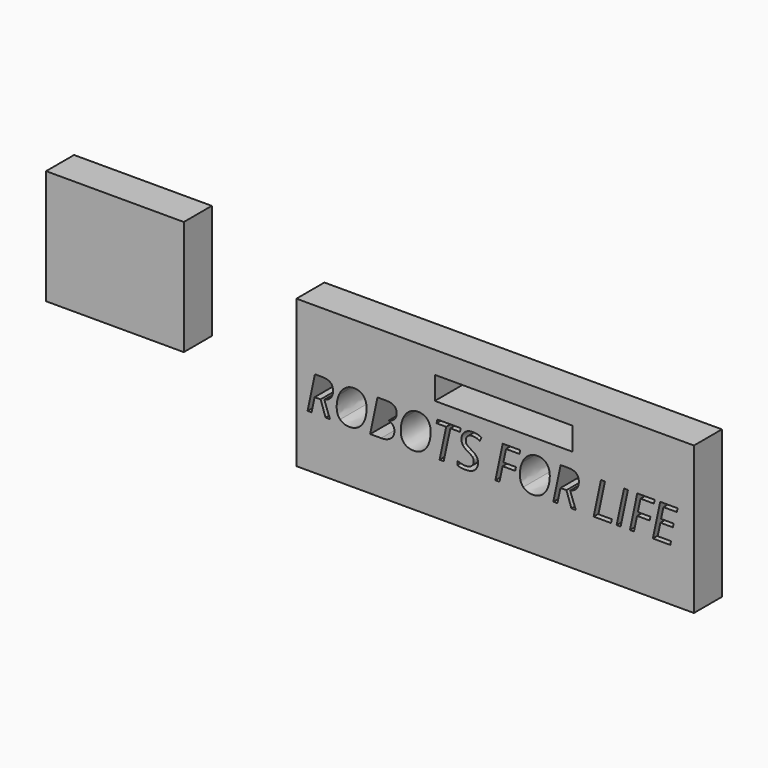
from build123d import *

# Parameters (mm, degrees)
F0_W     = 144.3225946277
F0_H     = 53.5482652485
F0_W_2   = 50
F0_H_2   = 8.3435839042
F1_DEPTH = 12.7
F2_DEPTH = 12.7
F0_H_3   = 41.5998017415


with BuildPart() as f1:
    # F0 (on Front) → F1 (new body)
    with BuildSketch(Plane.XZ):
        with Locations((62.1875571087, -1.3601835817)):
            Rectangle(F0_W, F0_H)
        with BuildLine():
            Line((-1.1938566275, -3.9241298048), (-3.365644822, -3.9241298048))
            Line((-3.365644822, -3.9241298048), (-4.4763436067, -9.1606749437))
            Line((-4.4763436067, -9.1606749437), (-5.9398201692, -9.1606749437))
            Line((-5.9398201692, -9.1606749437), (-3.2802064539, 3.4318380772))
            Line((-3.2802064539, 3.4318380772), (-0.524130065, 3.4318380772))
            add(Edge.make_bspline(
                [(-0.524130065, 3.4318380772), (3.3178404211, 3.4318380772), (3.3178404211, 0.2788866883)],
                knots=[0, 0, 0, 1, 1, 1], degree=2))
            add(Edge.make_bspline(
                [(3.3178404211, 0.2788866883), (3.3178404211, -2.7169683465), (0.1483525739, -3.5878884853)],
                knots=[0, 0, 0, 1, 1, 1], degree=2))
            Line((0.1483525739, -3.5878884853), (2.2071416364, -9.1606749437))
            Line((2.2071416364, -9.1606749437), (0.6058612544, -9.1606749437))
            Line((0.6058612544, -9.1606749437), (-1.1938566275, -3.9241298048))
        make_face(mode=Mode.SUBTRACT)
        with BuildLine():
            add(Edge.make_bspline(
                [(14.2994267926, 2.3032247959), (15.5052102127, 0.9761740147), (15.5052102127, -1.3499544576)],
                knots=[0, 0, 0, 1, 1, 1], degree=2))
            add(Edge.make_bspline(
                [(15.5052102127, -1.3499544576), (15.5052102127, -3.6650586242), (14.7472892058, -5.4950933465)],
                knots=[0, 0, 0, 1, 1, 1], degree=2))
            add(Edge.make_bspline(
                [(14.7472892058, -5.4950933465), (13.9893681989, -7.3251280687), (12.5768790496, -8.3297179124)],
                knots=[0, 0, 0, 1, 1, 1], degree=2))
            add(Edge.make_bspline(
                [(12.5768790496, -8.3297179124), (11.1643899002, -9.3343077562), (9.3150626433, -9.3343077562)],
                knots=[0, 0, 0, 1, 1, 1], degree=2))
            add(Edge.make_bspline(
                [(9.3150626433, -9.3343077562), (7.1102015322, -9.3343077562), (5.8782353864, -8.0458420444)],
                knots=[0, 0, 0, 1, 1, 1], degree=2))
            add(Edge.make_bspline(
                [(5.8782353864, -8.0458420444), (4.6462692405, -6.7573763326), (4.6462692405, -4.4312478603)],
                knots=[0, 0, 0, 1, 1, 1], degree=2))
            add(Edge.make_bspline(
                [(4.6462692405, -4.4312478603), (4.6462692405, -2.1574848395), (5.4730921572, -0.2805968187)],
                knots=[0, 0, 0, 1, 1, 1], degree=2))
            add(Edge.make_bspline(
                [(5.4730921572, -0.2805968187), (6.2999150739, 1.5962912022), (7.7427210634, 2.6132833897)],
                knots=[0, 0, 0, 1, 1, 1], degree=2))
            add(Edge.make_bspline(
                [(7.7427210634, 2.6132833897), (9.185527053, 3.6302755772), (10.9935131641, 3.6302755772)],
                knots=[0, 0, 0, 1, 1, 1], degree=2))
            add(Edge.make_bspline(
                [(10.9935131641, 3.6302755772), (13.0936433725, 3.6302755772), (14.2994267926, 2.3032247959)],
                knots=[0, 0, 0, 1, 1, 1], degree=2))
        make_face(mode=Mode.SUBTRACT)
        with BuildLine():
            Line((19.4574237544, 3.4318380772), (22.6875452822, 3.4318380772))
            add(Edge.make_bspline(
                [(22.6875452822, 3.4318380772), (26.4082484072, 3.4318380772), (26.4082484072, 0.5379578688)],
                knots=[0, 0, 0, 1, 1, 1], degree=2))
            add(Edge.make_bspline(
                [(26.4082484072, 0.5379578688), (26.4082484072, -0.6774718187), (25.6599736676, -1.5125629645)],
                knots=[0, 0, 0, 1, 1, 1], degree=2))
            add(Edge.make_bspline(
                [(25.6599736676, -1.5125629645), (24.911698928, -2.3476541103), (23.5501971919, -2.5984570617)],
                knots=[0, 0, 0, 1, 1, 1], degree=2))
            Line((23.5501971919, -2.5984570617), (23.5501971919, -2.6838954298))
            add(Edge.make_bspline(
                [(23.5501971919, -2.6838954298), (24.5396286155, -2.9595030687), (25.0701733204, -3.6361198221)],
                knots=[0, 0, 0, 1, 1, 1], degree=2))
            add(Edge.make_bspline(
                [(25.0701733204, -3.6361198221), (25.6007180252, -4.3127365756), (25.6007180252, -5.258070777)],
                knots=[0, 0, 0, 1, 1, 1], degree=2))
            add(Edge.make_bspline(
                [(25.6007180252, -5.258070777), (25.6007180252, -7.0853494228), (24.2915817405, -8.1230121833)],
                knots=[0, 0, 0, 1, 1, 1], degree=2))
            add(Edge.make_bspline(
                [(24.2915817405, -8.1230121833), (22.9824454558, -9.1606749437), (20.7858525739, -9.1606749437)],
                knots=[0, 0, 0, 1, 1, 1], degree=2))
            Line((20.7858525739, -9.1606749437), (16.7978100391, -9.1606749437))
            Line((16.7978100391, -9.1606749437), (19.4574237544, 3.4318380772))
        make_face(mode=Mode.SUBTRACT)
        with BuildLine():
            add(Edge.make_bspline(
                [(37.5524432857, 2.3032247959), (38.7582267058, 0.9761740147), (38.7582267058, -1.3499544576)],
                knots=[0, 0, 0, 1, 1, 1], degree=2))
            add(Edge.make_bspline(
                [(38.7582267058, -1.3499544576), (38.7582267058, -3.6650586242), (38.0003056989, -5.4950933465)],
                knots=[0, 0, 0, 1, 1, 1], degree=2))
            add(Edge.make_bspline(
                [(38.0003056989, -5.4950933465), (37.2423846919, -7.3251280687), (35.8298955426, -8.3297179124)],
                knots=[0, 0, 0, 1, 1, 1], degree=2))
            add(Edge.make_bspline(
                [(35.8298955426, -8.3297179124), (34.4174063933, -9.3343077562), (32.5680791364, -9.3343077562)],
                knots=[0, 0, 0, 1, 1, 1], degree=2))
            add(Edge.make_bspline(
                [(32.5680791364, -9.3343077562), (30.3632180252, -9.3343077562), (29.1312518794, -8.0458420444)],
                knots=[0, 0, 0, 1, 1, 1], degree=2))
            add(Edge.make_bspline(
                [(29.1312518794, -8.0458420444), (27.8992857336, -6.7573763326), (27.8992857336, -4.4312478603)],
                knots=[0, 0, 0, 1, 1, 1], degree=2))
            add(Edge.make_bspline(
                [(27.8992857336, -4.4312478603), (27.8992857336, -2.1574848395), (28.7261086502, -0.2805968187)],
                knots=[0, 0, 0, 1, 1, 1], degree=2))
            add(Edge.make_bspline(
                [(28.7261086502, -0.2805968187), (29.5529315669, 1.5962912022), (30.9957375565, 2.6132833897)],
                knots=[0, 0, 0, 1, 1, 1], degree=2))
            add(Edge.make_bspline(
                [(30.9957375565, 2.6132833897), (32.4385435461, 3.6302755772), (34.2465296572, 3.6302755772)],
                knots=[0, 0, 0, 1, 1, 1], degree=2))
            add(Edge.make_bspline(
                [(34.2465296572, 3.6302755772), (36.3466598655, 3.6302755772), (37.5524432857, 2.3032247959)],
                knots=[0, 0, 0, 1, 1, 1], degree=2))
        make_face(mode=Mode.SUBTRACT)
        Polygon((45.9074888586, 2.1309700216), (43.5041902475, -9.1606749437), (42.0214211502, -9.1606749437), (44.408183303, 2.1309700216), (40.9107223655, 2.1309700216), (41.1945982336, 3.4318380772), (49.680557435, 3.4318380772), (49.4214862544, 2.1309700216), align=None, mode=Mode.SUBTRACT)
        with BuildLine():
            add(Edge.make_bspline(
                [(55.7315231468, -4.2989561937), (55.9588994489, -4.8198546312), (55.9588994489, -5.5088737284)],
                knots=[0, 0, 0, 1, 1, 1], degree=2))
            add(Edge.make_bspline(
                [(55.9588994489, -5.5088737284), (55.9588994489, -7.3251280687), (54.7489819141, -8.3297179124)],
                knots=[0, 0, 0, 1, 1, 1], degree=2))
            add(Edge.make_bspline(
                [(54.7489819141, -8.3297179124), (53.5390643794, -9.3343077562), (51.3424714975, -9.3343077562)],
                knots=[0, 0, 0, 1, 1, 1], degree=2))
            add(Edge.make_bspline(
                [(51.3424714975, -9.3343077562), (50.4302102127, -9.3343077562), (49.7370570009, -9.2089062805)],
                knots=[0, 0, 0, 1, 1, 1], degree=2))
            add(Edge.make_bspline(
                [(49.7370570009, -9.2089062805), (49.0439037891, -9.0835048048), (48.4320548308, -8.7913607076)],
                knots=[0, 0, 0, 1, 1, 1], degree=2))
            Line((48.4320548308, -8.7913607076), (48.4320548308, -7.3251280687))
            add(Edge.make_bspline(
                [(48.4320548308, -7.3251280687), (49.8266294836, -8.049976159), (51.3590079558, -8.049976159)],
                knots=[0, 0, 0, 1, 1, 1], degree=2))
            add(Edge.make_bspline(
                [(51.3590079558, -8.049976159), (52.756338685, -8.049976159), (53.5735153343, -7.3995421312)],
                knots=[0, 0, 0, 1, 1, 1], degree=2))
            add(Edge.make_bspline(
                [(53.5735153343, -7.3995421312), (54.3906919836, -6.7491081034), (54.3906919836, -5.6108485548)],
                knots=[0, 0, 0, 1, 1, 1], degree=2))
            add(Edge.make_bspline(
                [(54.3906919836, -5.6108485548), (54.3906919836, -4.9411219923), (53.9386954558, -4.428491784)],
                knots=[0, 0, 0, 1, 1, 1], degree=2))
            add(Edge.make_bspline(
                [(53.9386954558, -4.428491784), (53.486698928, -3.9158615756), (52.2547327822, -3.2185742492)],
                knots=[0, 0, 0, 1, 1, 1], degree=2))
            add(Edge.make_bspline(
                [(52.2547327822, -3.2185742492), (50.956620803, -2.4854579298), (50.4522588239, -1.7537196485)],
                knots=[0, 0, 0, 1, 1, 1], degree=2))
            add(Edge.make_bspline(
                [(50.4522588239, -1.7537196485), (49.9478968447, -1.0219813673), (49.9478968447, -0.0215256381)],
                knots=[0, 0, 0, 1, 1, 1], degree=2))
            add(Edge.make_bspline(
                [(49.9478968447, -0.0215256381), (49.9478968447, 1.588022973), (51.0847783551, 2.5995030077)],
                knots=[0, 0, 0, 1, 1, 1], degree=2))
            add(Edge.make_bspline(
                [(51.0847783551, 2.5995030077), (52.2216598655, 3.6109830424), (54.0737431989, 3.6109830424)],
                knots=[0, 0, 0, 1, 1, 1], degree=2))
            add(Edge.make_bspline(
                [(54.0737431989, 3.6109830424), (54.925370803, 3.6109830424), (55.6626212371, 3.4483745355)],
                knots=[0, 0, 0, 1, 1, 1], degree=2))
            add(Edge.make_bspline(
                [(55.6626212371, 3.4483745355), (56.3998716711, 3.2857660285), (57.2156702822, 2.8888910285)],
                knots=[0, 0, 0, 1, 1, 1], degree=2))
            Line((57.2156702822, 2.8888910285), (56.6479185461, 1.5962912022))
            add(Edge.make_bspline(
                [(56.6479185461, 1.5962912022), (56.08016681, 1.9242642924), (55.3732332162, 2.1130555251)],
                knots=[0, 0, 0, 1, 1, 1], degree=2))
            add(Edge.make_bspline(
                [(55.3732332162, 2.1130555251), (54.6662996225, 2.3018467577), (54.0737431989, 2.3018467577)],
                knots=[0, 0, 0, 1, 1, 1], degree=2))
            add(Edge.make_bspline(
                [(54.0737431989, 2.3018467577), (52.9189471919, 2.3018467577), (52.2175257509, 1.7037781813)],
                knots=[0, 0, 0, 1, 1, 1], degree=2))
            add(Edge.make_bspline(
                [(52.2175257509, 1.7037781813), (51.51610431, 1.1057096049), (51.51610431, 0.0804491883)],
                knots=[0, 0, 0, 1, 1, 1], degree=2))
            add(Edge.make_bspline(
                [(51.51610431, 0.0804491883), (51.51610431, -0.3853277215), (51.6621763586, -0.7160568881)],
                knots=[0, 0, 0, 1, 1, 1], degree=2))
            add(Edge.make_bspline(
                [(51.6621763586, -0.7160568881), (51.8082484072, -1.0467860548), (52.1265752301, -1.3403081902)],
                knots=[0, 0, 0, 1, 1, 1], degree=2))
            add(Edge.make_bspline(
                [(52.1265752301, -1.3403081902), (52.444902053, -1.6338303256), (53.3488951086, -2.1574848395)],
                knots=[0, 0, 0, 1, 1, 1], degree=2))
            add(Edge.make_bspline(
                [(53.3488951086, -2.1574848395), (54.6166902475, -2.9154058465), (55.0604185461, -3.3467318013)],
                knots=[0, 0, 0, 1, 1, 1], degree=2))
            add(Edge.make_bspline(
                [(55.0604185461, -3.3467318013), (55.5041468447, -3.7780577562), (55.7315231468, -4.2989561937)],
                knots=[0, 0, 0, 1, 1, 1], degree=2))
        make_face(mode=Mode.SUBTRACT)
        Polygon((64.8858308725, -3.7945942145), (63.755839553, -9.1606749437), (62.2758265322, -9.1606749437), (64.9354402475, 3.4318380772), (71.2661477127, 3.4318380772), (71.0098326086, 2.1144335633), (66.1177970183, 2.1144335633), (65.1697067405, -2.4771897006), (69.7172327822, -2.4771897006), (69.4416251433, -3.7945942145), align=None, mode=Mode.SUBTRACT)
        with BuildLine():
            add(Edge.make_bspline(
                [(80.8090622093, 2.3032247959), (82.0148456294, 0.9761740147), (82.0148456294, -1.3499544576)],
                knots=[0, 0, 0, 1, 1, 1], degree=2))
            add(Edge.make_bspline(
                [(82.0148456294, -1.3499544576), (82.0148456294, -3.6650586242), (81.2569246225, -5.4950933465)],
                knots=[0, 0, 0, 1, 1, 1], degree=2))
            add(Edge.make_bspline(
                [(81.2569246225, -5.4950933465), (80.4990036155, -7.3251280687), (79.0865144662, -8.3297179124)],
                knots=[0, 0, 0, 1, 1, 1], degree=2))
            add(Edge.make_bspline(
                [(79.0865144662, -8.3297179124), (77.6740253169, -9.3343077562), (75.82469806, -9.3343077562)],
                knots=[0, 0, 0, 1, 1, 1], degree=2))
            add(Edge.make_bspline(
                [(75.82469806, -9.3343077562), (73.6198369489, -9.3343077562), (72.387870803, -8.0458420444)],
                knots=[0, 0, 0, 1, 1, 1], degree=2))
            add(Edge.make_bspline(
                [(72.387870803, -8.0458420444), (71.1559046572, -6.7573763326), (71.1559046572, -4.4312478603)],
                knots=[0, 0, 0, 1, 1, 1], degree=2))
            add(Edge.make_bspline(
                [(71.1559046572, -4.4312478603), (71.1559046572, -2.1574848395), (71.9827275739, -0.2805968187)],
                knots=[0, 0, 0, 1, 1, 1], degree=2))
            add(Edge.make_bspline(
                [(71.9827275739, -0.2805968187), (72.8095504905, 1.5962912022), (74.2523564801, 2.6132833897)],
                knots=[0, 0, 0, 1, 1, 1], degree=2))
            add(Edge.make_bspline(
                [(74.2523564801, 2.6132833897), (75.6951624697, 3.6302755772), (77.5031485808, 3.6302755772)],
                knots=[0, 0, 0, 1, 1, 1], degree=2))
            add(Edge.make_bspline(
                [(77.5031485808, 3.6302755772), (79.6032787891, 3.6302755772), (80.8090622093, 2.3032247959)],
                knots=[0, 0, 0, 1, 1, 1], degree=2))
        make_face(mode=Mode.SUBTRACT)
        with BuildLine():
            Line((88.0534089975, -3.9241298048), (85.881620803, -3.9241298048))
            Line((85.881620803, -3.9241298048), (84.7709220183, -9.1606749437))
            Line((84.7709220183, -9.1606749437), (83.3074454558, -9.1606749437))
            Line((83.3074454558, -9.1606749437), (85.9670591711, 3.4318380772))
            Line((85.9670591711, 3.4318380772), (88.72313556, 3.4318380772))
            add(Edge.make_bspline(
                [(88.72313556, 3.4318380772), (92.5651060461, 3.4318380772), (92.5651060461, 0.2788866883)],
                knots=[0, 0, 0, 1, 1, 1], degree=2))
            add(Edge.make_bspline(
                [(92.5651060461, 0.2788866883), (92.5651060461, -2.7169683465), (89.3956181989, -3.5878884853)],
                knots=[0, 0, 0, 1, 1, 1], degree=2))
            Line((89.3956181989, -3.5878884853), (91.4544072614, -9.1606749437))
            Line((91.4544072614, -9.1606749437), (89.8531268794, -9.1606749437))
            Line((89.8531268794, -9.1606749437), (88.0534089975, -3.9241298048))
        make_face(mode=Mode.SUBTRACT)
        Polygon((104.2563820877, -9.1606749437), (97.9256746225, -9.1606749437), (100.5852883377, 3.4318380772), (102.0515209766, 3.4318380772), (99.673027053, -7.8350022006), (104.5402579558, -7.8350022006), align=None, mode=Mode.SUBTRACT)
        Polygon((107.7345504905, -9.1606749437), (106.2876103864, -9.1606749437), (108.9665166364, 3.4318380772), (110.4134567405, 3.4318380772), align=None, mode=Mode.SUBTRACT)
        Polygon((113.712480178, -3.7945942145), (112.5824888586, -9.1606749437), (111.1024758377, -9.1606749437), (113.762089553, 3.4318380772), (120.0927970183, 3.4318380772), (119.8364819141, 2.1144335633), (114.9444463239, 2.1144335633), (113.9963560461, -2.4771897006), (118.5438820877, -2.4771897006), (118.2682744489, -3.7945942145), align=None, mode=Mode.SUBTRACT)
        Polygon((126.0459220183, -7.851538659), (125.7620461502, -9.1606749437), (119.431338685, -9.1606749437), (122.0909524002, 3.4318380772), (128.4216598655, 3.4318380772), (128.1460522266, 2.1144335633), (123.2733091711, 2.1144335633), (122.4271937197, -1.9259744228), (126.9664515322, -1.9259744228), (126.7184046572, -3.2351107076), (122.15985431, -3.2351107076), (121.1786911155, -7.851538659), align=None, mode=Mode.SUBTRACT)
        with Locations((65.2805477381, 13.2433944382)):
            Rectangle(F0_W_2, F0_H_2, mode=Mode.SUBTRACT)
    extrude(amount=F1_DEPTH)

    # F0 (on Front) → F2 (join)
    with BuildSketch(Plane.XZ):
        with Locations((62.1875571087, -1.3601835817)):
            Rectangle(F0_W, F0_H)
        with BuildLine():
            Line((-1.1938566275, -3.9241298048), (-3.365644822, -3.9241298048))
            Line((-3.365644822, -3.9241298048), (-4.4763436067, -9.1606749437))
            Line((-4.4763436067, -9.1606749437), (-5.9398201692, -9.1606749437))
            Line((-5.9398201692, -9.1606749437), (-3.2802064539, 3.4318380772))
            Line((-3.2802064539, 3.4318380772), (-0.524130065, 3.4318380772))
            add(Edge.make_bspline(
                [(-0.524130065, 3.4318380772), (3.3178404211, 3.4318380772), (3.3178404211, 0.2788866883)],
                knots=[0, 0, 0, 1, 1, 1], degree=2))
            add(Edge.make_bspline(
                [(3.3178404211, 0.2788866883), (3.3178404211, -2.7169683465), (0.1483525739, -3.5878884853)],
                knots=[0, 0, 0, 1, 1, 1], degree=2))
            Line((0.1483525739, -3.5878884853), (2.2071416364, -9.1606749437))
            Line((2.2071416364, -9.1606749437), (0.6058612544, -9.1606749437))
            Line((0.6058612544, -9.1606749437), (-1.1938566275, -3.9241298048))
        make_face(mode=Mode.SUBTRACT)
        with BuildLine():
            add(Edge.make_bspline(
                [(14.2994267926, 2.3032247959), (15.5052102127, 0.9761740147), (15.5052102127, -1.3499544576)],
                knots=[0, 0, 0, 1, 1, 1], degree=2))
            add(Edge.make_bspline(
                [(15.5052102127, -1.3499544576), (15.5052102127, -3.6650586242), (14.7472892058, -5.4950933465)],
                knots=[0, 0, 0, 1, 1, 1], degree=2))
            add(Edge.make_bspline(
                [(14.7472892058, -5.4950933465), (13.9893681989, -7.3251280687), (12.5768790496, -8.3297179124)],
                knots=[0, 0, 0, 1, 1, 1], degree=2))
            add(Edge.make_bspline(
                [(12.5768790496, -8.3297179124), (11.1643899002, -9.3343077562), (9.3150626433, -9.3343077562)],
                knots=[0, 0, 0, 1, 1, 1], degree=2))
            add(Edge.make_bspline(
                [(9.3150626433, -9.3343077562), (7.1102015322, -9.3343077562), (5.8782353864, -8.0458420444)],
                knots=[0, 0, 0, 1, 1, 1], degree=2))
            add(Edge.make_bspline(
                [(5.8782353864, -8.0458420444), (4.6462692405, -6.7573763326), (4.6462692405, -4.4312478603)],
                knots=[0, 0, 0, 1, 1, 1], degree=2))
            add(Edge.make_bspline(
                [(4.6462692405, -4.4312478603), (4.6462692405, -2.1574848395), (5.4730921572, -0.2805968187)],
                knots=[0, 0, 0, 1, 1, 1], degree=2))
            add(Edge.make_bspline(
                [(5.4730921572, -0.2805968187), (6.2999150739, 1.5962912022), (7.7427210634, 2.6132833897)],
                knots=[0, 0, 0, 1, 1, 1], degree=2))
            add(Edge.make_bspline(
                [(7.7427210634, 2.6132833897), (9.185527053, 3.6302755772), (10.9935131641, 3.6302755772)],
                knots=[0, 0, 0, 1, 1, 1], degree=2))
            add(Edge.make_bspline(
                [(10.9935131641, 3.6302755772), (13.0936433725, 3.6302755772), (14.2994267926, 2.3032247959)],
                knots=[0, 0, 0, 1, 1, 1], degree=2))
        make_face(mode=Mode.SUBTRACT)
        with BuildLine():
            Line((19.4574237544, 3.4318380772), (22.6875452822, 3.4318380772))
            add(Edge.make_bspline(
                [(22.6875452822, 3.4318380772), (26.4082484072, 3.4318380772), (26.4082484072, 0.5379578688)],
                knots=[0, 0, 0, 1, 1, 1], degree=2))
            add(Edge.make_bspline(
                [(26.4082484072, 0.5379578688), (26.4082484072, -0.6774718187), (25.6599736676, -1.5125629645)],
                knots=[0, 0, 0, 1, 1, 1], degree=2))
            add(Edge.make_bspline(
                [(25.6599736676, -1.5125629645), (24.911698928, -2.3476541103), (23.5501971919, -2.5984570617)],
                knots=[0, 0, 0, 1, 1, 1], degree=2))
            Line((23.5501971919, -2.5984570617), (23.5501971919, -2.6838954298))
            add(Edge.make_bspline(
                [(23.5501971919, -2.6838954298), (24.5396286155, -2.9595030687), (25.0701733204, -3.6361198221)],
                knots=[0, 0, 0, 1, 1, 1], degree=2))
            add(Edge.make_bspline(
                [(25.0701733204, -3.6361198221), (25.6007180252, -4.3127365756), (25.6007180252, -5.258070777)],
                knots=[0, 0, 0, 1, 1, 1], degree=2))
            add(Edge.make_bspline(
                [(25.6007180252, -5.258070777), (25.6007180252, -7.0853494228), (24.2915817405, -8.1230121833)],
                knots=[0, 0, 0, 1, 1, 1], degree=2))
            add(Edge.make_bspline(
                [(24.2915817405, -8.1230121833), (22.9824454558, -9.1606749437), (20.7858525739, -9.1606749437)],
                knots=[0, 0, 0, 1, 1, 1], degree=2))
            Line((20.7858525739, -9.1606749437), (16.7978100391, -9.1606749437))
            Line((16.7978100391, -9.1606749437), (19.4574237544, 3.4318380772))
        make_face(mode=Mode.SUBTRACT)
        with BuildLine():
            add(Edge.make_bspline(
                [(37.5524432857, 2.3032247959), (38.7582267058, 0.9761740147), (38.7582267058, -1.3499544576)],
                knots=[0, 0, 0, 1, 1, 1], degree=2))
            add(Edge.make_bspline(
                [(38.7582267058, -1.3499544576), (38.7582267058, -3.6650586242), (38.0003056989, -5.4950933465)],
                knots=[0, 0, 0, 1, 1, 1], degree=2))
            add(Edge.make_bspline(
                [(38.0003056989, -5.4950933465), (37.2423846919, -7.3251280687), (35.8298955426, -8.3297179124)],
                knots=[0, 0, 0, 1, 1, 1], degree=2))
            add(Edge.make_bspline(
                [(35.8298955426, -8.3297179124), (34.4174063933, -9.3343077562), (32.5680791364, -9.3343077562)],
                knots=[0, 0, 0, 1, 1, 1], degree=2))
            add(Edge.make_bspline(
                [(32.5680791364, -9.3343077562), (30.3632180252, -9.3343077562), (29.1312518794, -8.0458420444)],
                knots=[0, 0, 0, 1, 1, 1], degree=2))
            add(Edge.make_bspline(
                [(29.1312518794, -8.0458420444), (27.8992857336, -6.7573763326), (27.8992857336, -4.4312478603)],
                knots=[0, 0, 0, 1, 1, 1], degree=2))
            add(Edge.make_bspline(
                [(27.8992857336, -4.4312478603), (27.8992857336, -2.1574848395), (28.7261086502, -0.2805968187)],
                knots=[0, 0, 0, 1, 1, 1], degree=2))
            add(Edge.make_bspline(
                [(28.7261086502, -0.2805968187), (29.5529315669, 1.5962912022), (30.9957375565, 2.6132833897)],
                knots=[0, 0, 0, 1, 1, 1], degree=2))
            add(Edge.make_bspline(
                [(30.9957375565, 2.6132833897), (32.4385435461, 3.6302755772), (34.2465296572, 3.6302755772)],
                knots=[0, 0, 0, 1, 1, 1], degree=2))
            add(Edge.make_bspline(
                [(34.2465296572, 3.6302755772), (36.3466598655, 3.6302755772), (37.5524432857, 2.3032247959)],
                knots=[0, 0, 0, 1, 1, 1], degree=2))
        make_face(mode=Mode.SUBTRACT)
        Polygon((45.9074888586, 2.1309700216), (43.5041902475, -9.1606749437), (42.0214211502, -9.1606749437), (44.408183303, 2.1309700216), (40.9107223655, 2.1309700216), (41.1945982336, 3.4318380772), (49.680557435, 3.4318380772), (49.4214862544, 2.1309700216), align=None, mode=Mode.SUBTRACT)
        with BuildLine():
            add(Edge.make_bspline(
                [(55.7315231468, -4.2989561937), (55.9588994489, -4.8198546312), (55.9588994489, -5.5088737284)],
                knots=[0, 0, 0, 1, 1, 1], degree=2))
            add(Edge.make_bspline(
                [(55.9588994489, -5.5088737284), (55.9588994489, -7.3251280687), (54.7489819141, -8.3297179124)],
                knots=[0, 0, 0, 1, 1, 1], degree=2))
            add(Edge.make_bspline(
                [(54.7489819141, -8.3297179124), (53.5390643794, -9.3343077562), (51.3424714975, -9.3343077562)],
                knots=[0, 0, 0, 1, 1, 1], degree=2))
            add(Edge.make_bspline(
                [(51.3424714975, -9.3343077562), (50.4302102127, -9.3343077562), (49.7370570009, -9.2089062805)],
                knots=[0, 0, 0, 1, 1, 1], degree=2))
            add(Edge.make_bspline(
                [(49.7370570009, -9.2089062805), (49.0439037891, -9.0835048048), (48.4320548308, -8.7913607076)],
                knots=[0, 0, 0, 1, 1, 1], degree=2))
            Line((48.4320548308, -8.7913607076), (48.4320548308, -7.3251280687))
            add(Edge.make_bspline(
                [(48.4320548308, -7.3251280687), (49.8266294836, -8.049976159), (51.3590079558, -8.049976159)],
                knots=[0, 0, 0, 1, 1, 1], degree=2))
            add(Edge.make_bspline(
                [(51.3590079558, -8.049976159), (52.756338685, -8.049976159), (53.5735153343, -7.3995421312)],
                knots=[0, 0, 0, 1, 1, 1], degree=2))
            add(Edge.make_bspline(
                [(53.5735153343, -7.3995421312), (54.3906919836, -6.7491081034), (54.3906919836, -5.6108485548)],
                knots=[0, 0, 0, 1, 1, 1], degree=2))
            add(Edge.make_bspline(
                [(54.3906919836, -5.6108485548), (54.3906919836, -4.9411219923), (53.9386954558, -4.428491784)],
                knots=[0, 0, 0, 1, 1, 1], degree=2))
            add(Edge.make_bspline(
                [(53.9386954558, -4.428491784), (53.486698928, -3.9158615756), (52.2547327822, -3.2185742492)],
                knots=[0, 0, 0, 1, 1, 1], degree=2))
            add(Edge.make_bspline(
                [(52.2547327822, -3.2185742492), (50.956620803, -2.4854579298), (50.4522588239, -1.7537196485)],
                knots=[0, 0, 0, 1, 1, 1], degree=2))
            add(Edge.make_bspline(
                [(50.4522588239, -1.7537196485), (49.9478968447, -1.0219813673), (49.9478968447, -0.0215256381)],
                knots=[0, 0, 0, 1, 1, 1], degree=2))
            add(Edge.make_bspline(
                [(49.9478968447, -0.0215256381), (49.9478968447, 1.588022973), (51.0847783551, 2.5995030077)],
                knots=[0, 0, 0, 1, 1, 1], degree=2))
            add(Edge.make_bspline(
                [(51.0847783551, 2.5995030077), (52.2216598655, 3.6109830424), (54.0737431989, 3.6109830424)],
                knots=[0, 0, 0, 1, 1, 1], degree=2))
            add(Edge.make_bspline(
                [(54.0737431989, 3.6109830424), (54.925370803, 3.6109830424), (55.6626212371, 3.4483745355)],
                knots=[0, 0, 0, 1, 1, 1], degree=2))
            add(Edge.make_bspline(
                [(55.6626212371, 3.4483745355), (56.3998716711, 3.2857660285), (57.2156702822, 2.8888910285)],
                knots=[0, 0, 0, 1, 1, 1], degree=2))
            Line((57.2156702822, 2.8888910285), (56.6479185461, 1.5962912022))
            add(Edge.make_bspline(
                [(56.6479185461, 1.5962912022), (56.08016681, 1.9242642924), (55.3732332162, 2.1130555251)],
                knots=[0, 0, 0, 1, 1, 1], degree=2))
            add(Edge.make_bspline(
                [(55.3732332162, 2.1130555251), (54.6662996225, 2.3018467577), (54.0737431989, 2.3018467577)],
                knots=[0, 0, 0, 1, 1, 1], degree=2))
            add(Edge.make_bspline(
                [(54.0737431989, 2.3018467577), (52.9189471919, 2.3018467577), (52.2175257509, 1.7037781813)],
                knots=[0, 0, 0, 1, 1, 1], degree=2))
            add(Edge.make_bspline(
                [(52.2175257509, 1.7037781813), (51.51610431, 1.1057096049), (51.51610431, 0.0804491883)],
                knots=[0, 0, 0, 1, 1, 1], degree=2))
            add(Edge.make_bspline(
                [(51.51610431, 0.0804491883), (51.51610431, -0.3853277215), (51.6621763586, -0.7160568881)],
                knots=[0, 0, 0, 1, 1, 1], degree=2))
            add(Edge.make_bspline(
                [(51.6621763586, -0.7160568881), (51.8082484072, -1.0467860548), (52.1265752301, -1.3403081902)],
                knots=[0, 0, 0, 1, 1, 1], degree=2))
            add(Edge.make_bspline(
                [(52.1265752301, -1.3403081902), (52.444902053, -1.6338303256), (53.3488951086, -2.1574848395)],
                knots=[0, 0, 0, 1, 1, 1], degree=2))
            add(Edge.make_bspline(
                [(53.3488951086, -2.1574848395), (54.6166902475, -2.9154058465), (55.0604185461, -3.3467318013)],
                knots=[0, 0, 0, 1, 1, 1], degree=2))
            add(Edge.make_bspline(
                [(55.0604185461, -3.3467318013), (55.5041468447, -3.7780577562), (55.7315231468, -4.2989561937)],
                knots=[0, 0, 0, 1, 1, 1], degree=2))
        make_face(mode=Mode.SUBTRACT)
        Polygon((64.8858308725, -3.7945942145), (63.755839553, -9.1606749437), (62.2758265322, -9.1606749437), (64.9354402475, 3.4318380772), (71.2661477127, 3.4318380772), (71.0098326086, 2.1144335633), (66.1177970183, 2.1144335633), (65.1697067405, -2.4771897006), (69.7172327822, -2.4771897006), (69.4416251433, -3.7945942145), align=None, mode=Mode.SUBTRACT)
        with BuildLine():
            add(Edge.make_bspline(
                [(80.8090622093, 2.3032247959), (82.0148456294, 0.9761740147), (82.0148456294, -1.3499544576)],
                knots=[0, 0, 0, 1, 1, 1], degree=2))
            add(Edge.make_bspline(
                [(82.0148456294, -1.3499544576), (82.0148456294, -3.6650586242), (81.2569246225, -5.4950933465)],
                knots=[0, 0, 0, 1, 1, 1], degree=2))
            add(Edge.make_bspline(
                [(81.2569246225, -5.4950933465), (80.4990036155, -7.3251280687), (79.0865144662, -8.3297179124)],
                knots=[0, 0, 0, 1, 1, 1], degree=2))
            add(Edge.make_bspline(
                [(79.0865144662, -8.3297179124), (77.6740253169, -9.3343077562), (75.82469806, -9.3343077562)],
                knots=[0, 0, 0, 1, 1, 1], degree=2))
            add(Edge.make_bspline(
                [(75.82469806, -9.3343077562), (73.6198369489, -9.3343077562), (72.387870803, -8.0458420444)],
                knots=[0, 0, 0, 1, 1, 1], degree=2))
            add(Edge.make_bspline(
                [(72.387870803, -8.0458420444), (71.1559046572, -6.7573763326), (71.1559046572, -4.4312478603)],
                knots=[0, 0, 0, 1, 1, 1], degree=2))
            add(Edge.make_bspline(
                [(71.1559046572, -4.4312478603), (71.1559046572, -2.1574848395), (71.9827275739, -0.2805968187)],
                knots=[0, 0, 0, 1, 1, 1], degree=2))
            add(Edge.make_bspline(
                [(71.9827275739, -0.2805968187), (72.8095504905, 1.5962912022), (74.2523564801, 2.6132833897)],
                knots=[0, 0, 0, 1, 1, 1], degree=2))
            add(Edge.make_bspline(
                [(74.2523564801, 2.6132833897), (75.6951624697, 3.6302755772), (77.5031485808, 3.6302755772)],
                knots=[0, 0, 0, 1, 1, 1], degree=2))
            add(Edge.make_bspline(
                [(77.5031485808, 3.6302755772), (79.6032787891, 3.6302755772), (80.8090622093, 2.3032247959)],
                knots=[0, 0, 0, 1, 1, 1], degree=2))
        make_face(mode=Mode.SUBTRACT)
        with BuildLine():
            Line((88.0534089975, -3.9241298048), (85.881620803, -3.9241298048))
            Line((85.881620803, -3.9241298048), (84.7709220183, -9.1606749437))
            Line((84.7709220183, -9.1606749437), (83.3074454558, -9.1606749437))
            Line((83.3074454558, -9.1606749437), (85.9670591711, 3.4318380772))
            Line((85.9670591711, 3.4318380772), (88.72313556, 3.4318380772))
            add(Edge.make_bspline(
                [(88.72313556, 3.4318380772), (92.5651060461, 3.4318380772), (92.5651060461, 0.2788866883)],
                knots=[0, 0, 0, 1, 1, 1], degree=2))
            add(Edge.make_bspline(
                [(92.5651060461, 0.2788866883), (92.5651060461, -2.7169683465), (89.3956181989, -3.5878884853)],
                knots=[0, 0, 0, 1, 1, 1], degree=2))
            Line((89.3956181989, -3.5878884853), (91.4544072614, -9.1606749437))
            Line((91.4544072614, -9.1606749437), (89.8531268794, -9.1606749437))
            Line((89.8531268794, -9.1606749437), (88.0534089975, -3.9241298048))
        make_face(mode=Mode.SUBTRACT)
        Polygon((104.2563820877, -9.1606749437), (97.9256746225, -9.1606749437), (100.5852883377, 3.4318380772), (102.0515209766, 3.4318380772), (99.673027053, -7.8350022006), (104.5402579558, -7.8350022006), align=None, mode=Mode.SUBTRACT)
        Polygon((107.7345504905, -9.1606749437), (106.2876103864, -9.1606749437), (108.9665166364, 3.4318380772), (110.4134567405, 3.4318380772), align=None, mode=Mode.SUBTRACT)
        Polygon((113.712480178, -3.7945942145), (112.5824888586, -9.1606749437), (111.1024758377, -9.1606749437), (113.762089553, 3.4318380772), (120.0927970183, 3.4318380772), (119.8364819141, 2.1144335633), (114.9444463239, 2.1144335633), (113.9963560461, -2.4771897006), (118.5438820877, -2.4771897006), (118.2682744489, -3.7945942145), align=None, mode=Mode.SUBTRACT)
        Polygon((126.0459220183, -7.851538659), (125.7620461502, -9.1606749437), (119.431338685, -9.1606749437), (122.0909524002, 3.4318380772), (128.4216598655, 3.4318380772), (128.1460522266, 2.1144335633), (123.2733091711, 2.1144335633), (122.4271937197, -1.9259744228), (126.9664515322, -1.9259744228), (126.7184046572, -3.2351107076), (122.15985431, -3.2351107076), (121.1786911155, -7.851538659), align=None, mode=Mode.SUBTRACT)
        with Locations((65.2805477381, 13.2433944382)):
            Rectangle(F0_W_2, F0_H_2, mode=Mode.SUBTRACT)
    extrude(amount=F2_DEPTH)


with BuildPart() as f2:
    # F0 (on Front) → F2, piece 2 (new body)
    with BuildSketch(Plane.XZ):
        with Locations((-75.8656315506, 15.8155639656)):
            Rectangle(F0_W_2, F0_H_3)
    extrude(amount=F2_DEPTH)


solid = Compound([f1.part, f2.part])
